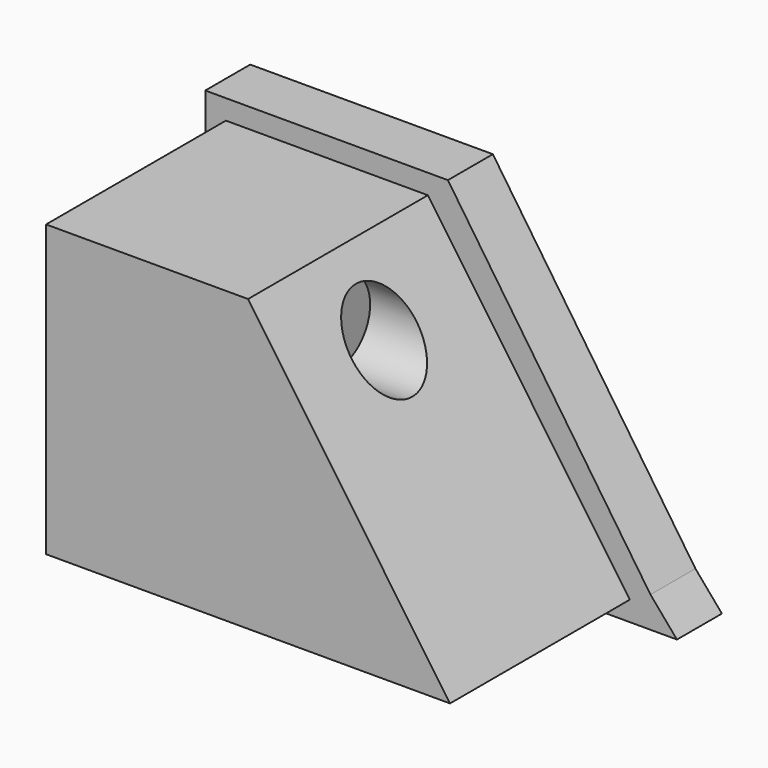
from build123d import *

# Parameters (mm, degrees)
F2_DEPTH = 50.8
F3_DEPTH = 12.7
F4_R     = 9.161038
F5_DEPTH = 50.8


with BuildPart() as f2:
    # F0 (on Front) → F2 (new body)
    with BuildSketch(Plane.XZ):
        Polygon((-45.646802, -32.811075), (45.646802, -32.811075), (0, 32.811075), (-45.646802, 32.811075), align=None)
    extrude(amount=F2_DEPTH)

    # F1 (on Front) → F3 (join)
    with BuildSketch(Plane.XZ):
        Polygon((4.530817, 37.287548), (-50.311431, 37.287548), (-50.311431, -37.287548), (50.311431, -37.287548), (56.298688, -37.287548), (50.311431, -30.283526), align=None)
    extrude(amount=-F3_DEPTH)

    # F4 (on Right) → F5 (cut)
    with BuildSketch(Plane.YZ):
        with Locations((-25.475649, 17.725538)):
            Circle(F4_R)
    extrude(amount=F5_DEPTH, mode=Mode.SUBTRACT)


solid = f2.part
